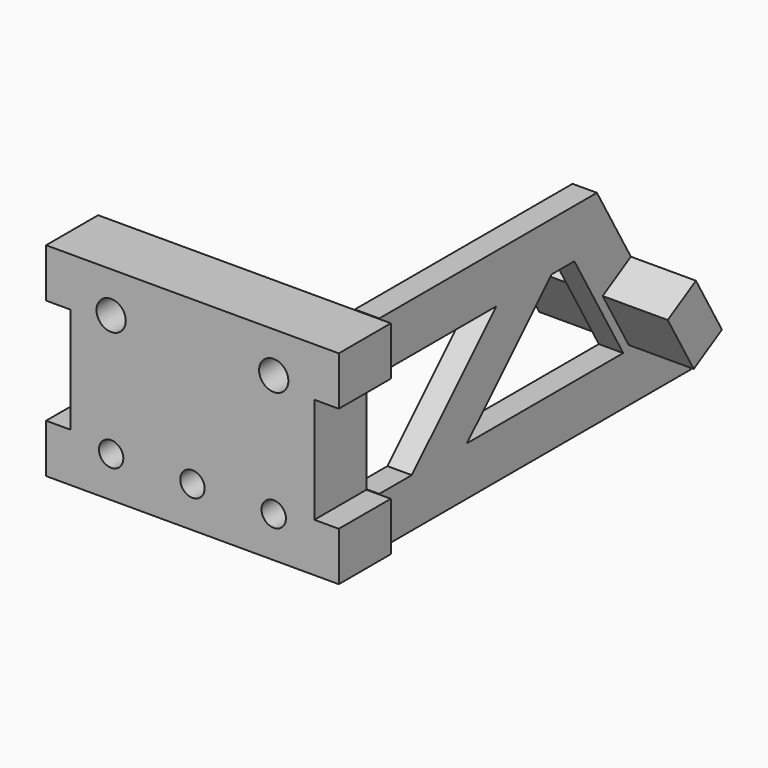
from build123d import *

# Parameters (mm, degrees)
F0_W     = 30
F0_H     = 25
F0_R     = 1.5
F0_R_2   = 1.8
F1_DEPTH = 8
F2_W     = 1.5
F2_H     = 3
F3_DEPTH = 8
F4_DEPTH = 5
F5_W     = 4.9
F5_H     = 2.8
F6_DEPTH = 3
F7_W     = 8
F7_H     = 8
F8_DEPTH = 5


with BuildPart() as f1:
    # F0 (on Front) → F1 (new body)
    with BuildSketch(Plane.XZ):
        with Locations((2.5, -2.5)):
            Rectangle(F0_W, F0_H)
        with Locations((-7.5, -10)):
            Circle(F0_R, mode=Mode.SUBTRACT)
        with Locations((2.5, -10)):
            Circle(F0_R, mode=Mode.SUBTRACT)
        with Locations((12.5, -10)):
            Circle(F0_R, mode=Mode.SUBTRACT)
        with Locations((-7.5, 5)):
            Circle(F0_R_2, mode=Mode.SUBTRACT)
        with Locations((12.5, 5)):
            Circle(F0_R_2, mode=Mode.SUBTRACT)
    extrude(amount=-F1_DEPTH)

    # F2 (on face) → F3 (join)
    with BuildSketch(Plane(origin=(0, 8, 0), x_dir=(-1, 0, 0), z_dir=(0, 1, 0))):
        Polygon((-17.5, -9), (-20.5, -9), (-20.5, -15), (-17.5, -15), (-17.5, -13.5), (-19, -13.5), (-19, -10.5), (-17.5, -10.5), align=None)
        Polygon((-17.5, 8.5), (-17.5, 10), (-20.5, 10), (-20.5, 4), (-17.5, 4), (-17.5, 5.5), (-19, 5.5), (-19, 8.5), align=None)
        Polygon((15.5, 10), (12.5, 10), (12.5, 8.5), (14, 8.5), (14, 5.5), (12.5, 5.5), (12.5, 4), (15.5, 4), align=None)
        Polygon((15.5, -15), (15.5, -9), (12.5, -9), (12.5, -10.5), (14, -10.5), (14, -13.5), (12.5, -13.5), (12.5, -15), align=None)
        with Locations((-18.25, 7)):
            Rectangle(F2_W, F2_H)
        with Locations((-18.25, -12)):
            Rectangle(F2_W, F2_H)
        with Locations((13.25, -12)):
            Rectangle(F2_W, F2_H)
        with Locations((13.25, 7)):
            Rectangle(F2_W, F2_H)
    extrude(amount=-F3_DEPTH)

    # F2 (on face) → F4 (cut)
    with BuildSketch(Plane(origin=(0, 8, 0), x_dir=(-1, 0, 0), z_dir=(0, 1, 0))):
        with Locations((-16.75, 7)):
            Rectangle(F2_W, F2_H)
        with Locations((-18.25, 7)):
            Rectangle(F2_W, F2_H)
        with Locations((-16.75, -12)):
            Rectangle(F2_W, F2_H)
        with Locations((-18.25, -12)):
            Rectangle(F2_W, F2_H)
        with Locations((13.25, -12)):
            Rectangle(F2_W, F2_H)
        with Locations((11.75, -12)):
            Rectangle(F2_W, F2_H)
        with Locations((13.25, 7)):
            Rectangle(F2_W, F2_H)
        with Locations((11.75, 7)):
            Rectangle(F2_W, F2_H)
    extrude(amount=-F4_DEPTH, mode=Mode.SUBTRACT)

    # F5 (on face) → F6 (join)
    with BuildSketch(Plane.YZ.offset(16)):
        Polygon((8.1, 8.4), (8, 8.4), (8, 5.6), (8.1, 5.6), (8.1, 4), (26.1, 4), (13.1, -9), (8.1, -9), (8.1, -10.6), (8, -10.6), (3.1, -10.6), (3.1, -13.4), (8, -13.4), (8.1, -13.4), (8.1, -13.5), (8.1, -15), (13.1, -15), (49.069655, -15), (55.997858, -15), (41.564102, 10), (38.1, 10), (8.1, 10), align=None)
        Polygon((34.585282, 4), (38.1, 4), (45.605553, -9), (21.585282, -9), align=None, mode=Mode.SUBTRACT)
        with Locations((5.55, 7)):
            Rectangle(F5_W, F5_H)
    extrude(amount=F6_DEPTH)

    # F7 (on face) → F8 (join)
    with BuildSketch(Plane(origin=(0, 35.503203, 20.497784), x_dir=(-1, 0, 0), z_dir=(0, 0.866025, 0.5))):
        with Locations((-23, -26.555553)):
            Rectangle(F7_W, F7_H)
        with Locations((-12, -26.555553)):
            Rectangle(F7_W, F7_H)
    extrude(amount=-F8_DEPTH)


solid = f1.part
